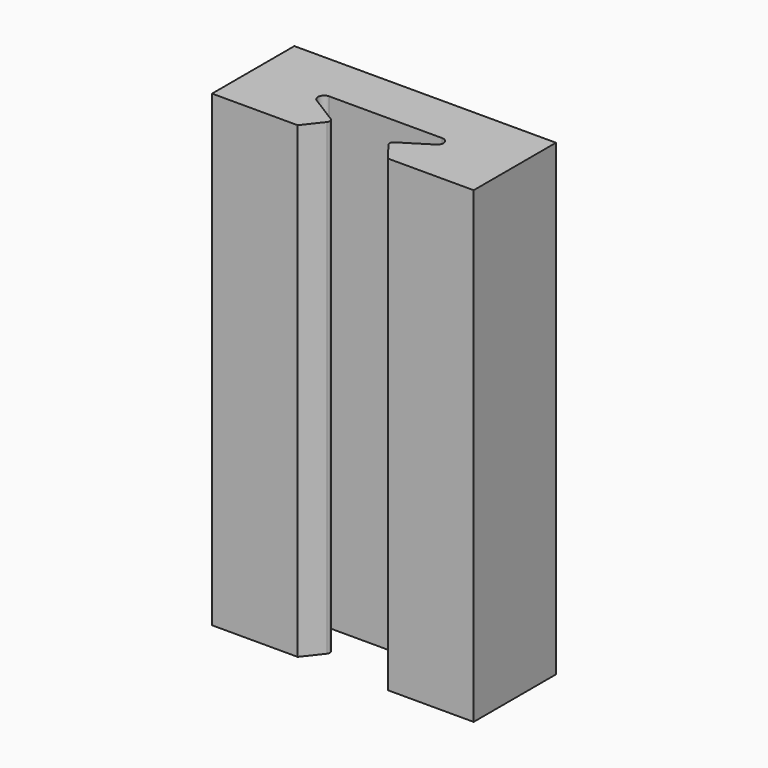
from build123d import *

# Parameters (mm, degrees)
PAD_DEPTH    = 45.5
SKETCH001_R  = 1.4
POCKET_DEPTH = 6


with BuildPart() as part:
    # Sketch → Pad (new body)
    with BuildSketch(Plane.XY):
        with BuildLine():
            Line((12.715, 0), (12.715, 10))
            Line((12.715, 10), (-12.715, 10))
            Line((-12.715, 10), (-12.715, 0))
            Line((-12.715, 0), (-4.390988, 0))
            Line((-2.984796, 1.799844), (-4.390988, 0))
            ThreePointArc((-2.984796, 1.799844), (-2.906077, 2.115568), (-3.088032, 2.385328))
            Line((-5.817952, 4.091171), (-3.088032, 2.385328))
            ThreePointArc((-5.5, 5.2), (-6.076757, 4.765382), (-5.817952, 4.091171))
            Line((-5.5, 5.2), (5.5, 5.2))
            ThreePointArc((5.817952, 4.091171), (6.076757, 4.765382), (5.5, 5.2))
            Line((5.817952, 4.091171), (3.088032, 2.385328))
            ThreePointArc((3.088032, 2.385328), (2.906077, 2.115568), (2.984796, 1.799844))
            Line((2.984796, 1.799844), (4.390988, 0))
            Line((4.390988, 0), (12.715, 0))
        make_face()
    extrude(amount=PAD_DEPTH)

    # Sketch001 (on Face6 of Pad) → Pocket (cut)
    with BuildSketch(Plane(origin=(0, 10, 0), x_dir=(-1, 0, 0), z_dir=(0, 1, 0))):
        with Locations((-10, 12)):
            Circle(SKETCH001_R)
        with Locations((-10, 32)):
            Circle(SKETCH001_R)
        with Locations((10, 32)):
            Circle(SKETCH001_R)
        with Locations((10, 12)):
            Circle(SKETCH001_R)
    extrude(amount=-POCKET_DEPTH, mode=Mode.SUBTRACT)


solid = part.part
